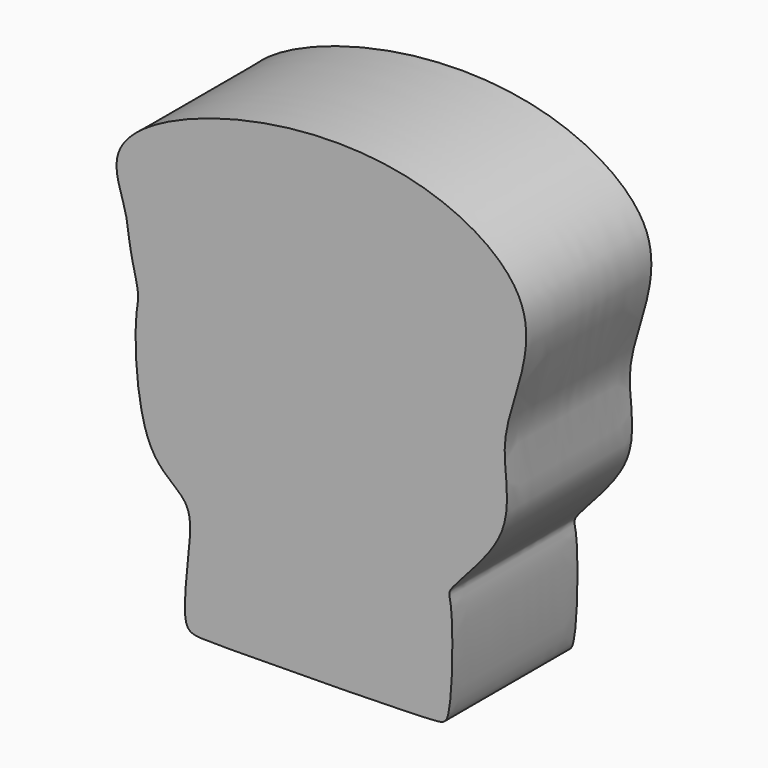
from build123d import *

# Parameters (mm, degrees)
F1_DEPTH = 12.7
F2_R     = 2.1847912261
F3_DEPTH = 12.7


with BuildPart() as f1:
    # F0 (on Front) → F1 (new body)
    with BuildSketch(Plane.XZ):
        with BuildLine():
            add(Edge.make_bspline(
                [(-11.0499756411, 5.924965255), (-11.3930739649, 7.1312164942), (-10.5050352103, 12.3199235508), (-10.9416972059, 14.9808069982), (-15.0078775285, 16.8882895579), (-15.3396309432, 26.605789021), (-14.7395852902, 27.9581816357), (-15.7192872491, 31.2071706738), (-15.7830138107, 33.7876456989), (-18.0666863947, 38.6819316126), (-7.6064451531, 44.1225462964), (7.6646818358, 44.9579282957), (17.6518472588, 38.560062111), (15.9282109613, 31.3235468841), (14.2453667664, 26.6723004363), (16.0398188331, 20.5473771609), (9.9214792288, 15.2388560037), (10.6651526704, 14.4443311945), (10.5844344755, 5.7194485711), (9.0234483112, 5.3326076914), (-8.8507866079, 5.1215995103), (-10.8445458435, 5.2027234639), (-11.0499756411, 5.924965255)],
                knots=[0, 0, 0, 0, 0.0537524105, 0.0882172011, 0.1304887524, 0.194784945, 0.222186135, 0.2594252667, 0.2953053671, 0.3380960318, 0.4053991566, 0.4913630719, 0.559174638, 0.6128425932, 0.6603845534, 0.7128932593, 0.7686764308, 0.7900996464, 0.8507031073, 0.8771712649, 0.967815795, 1, 1, 1, 1], degree=3))
        make_face()
    extrude(amount=F1_DEPTH)

    # F2 (on Top) → F3 (cut)
    with BuildSketch(Plane.XY):
        with Locations((0, -6.8541388027)):
            Circle(F2_R)
    extrude(amount=F3_DEPTH, mode=Mode.SUBTRACT)


solid = f1.part
